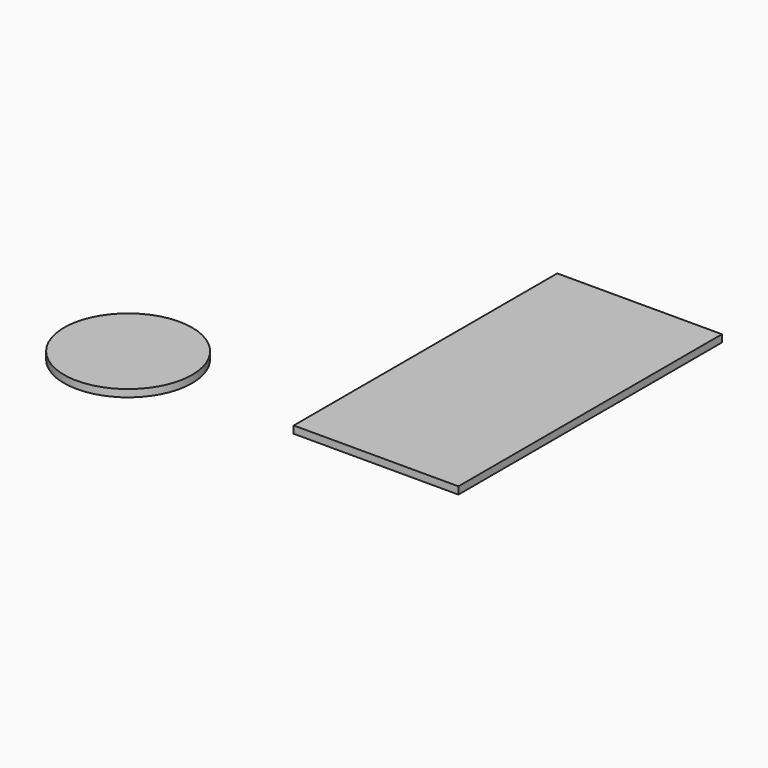
from build123d import *

# Parameters (mm, degrees)
F0_R     = 3.5
F1_DEPTH = 0.4
F0_W     = 9
F0_H     = 18
F2_DEPTH = 0.4


with BuildPart() as f1:
    # F0 (on Top) → F1 (new body)
    with BuildSketch(Plane.XY):
        with Locations((-23.366418, 19.109819)):
            Circle(F0_R)
    extrude(amount=F1_DEPTH)


with BuildPart() as f2:
    # F0 (on Top) → F2 (new body)
    with BuildSketch(Plane.XY):
        with Locations((-9.06076, 27.166967)):
            Rectangle(F0_W, F0_H)
    extrude(amount=F2_DEPTH)


solid = Compound([f1.part, f2.part])
